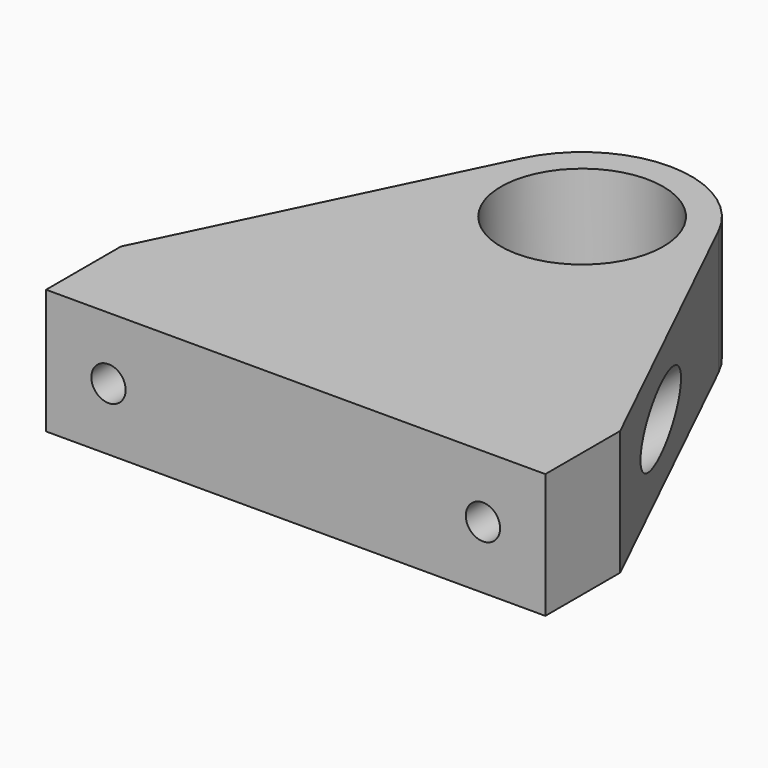
from build123d import *

# Parameters (mm, degrees)
PAD_DEPTH       = 20
SKETCH001_R     = 13
POCKET_DEPTH    = 18
SKETCH002_R     = 2.75
POCKET001_DEPTH = 74.863063
POCKET002_START = -20
SKETCH003_R     = 5
POCKET002_DEPTH = 50


with BuildPart() as part:
    # Sketch → Pad (new body)
    with BuildSketch(Plane.XY):
        with BuildLine():
            Line((0, 0), (0, 15))
            Line((24.254781, 65), (0, 15))
            ThreePointArc((55.745219, 65), (40, 74.862063), (24.254781, 65))
            Line((55.745219, 65), (80, 15))
            Line((80, 0), (80, 15))
            Line((0, 0), (80, 0))
        make_face()
    extrude(amount=PAD_DEPTH)

    # Sketch001 (on Face8 of Pad) → Pocket (cut)
    with BuildSketch(Plane.XY.offset(20)):
        with Locations((40, 57.362063)):
            Circle(SKETCH001_R)
    extrude(amount=-POCKET_DEPTH, mode=Mode.SUBTRACT)

    # Sketch002 (on Face7 of Pocket) → Pocket001 (cut, through all)
    with BuildSketch(Plane.XZ):
        with Locations((10, 10)):
            Circle(SKETCH002_R)
        with Locations((70, 10)):
            Circle(SKETCH002_R)
    extrude(amount=-POCKET001_DEPTH, mode=Mode.SUBTRACT)

    # Sketch003 → Pocket002 (cut)
    with BuildSketch(Plane.XZ.offset(POCKET002_START)):
        with Locations((70, 10)):
            Circle(SKETCH003_R)
        with Locations((10, 10)):
            Circle(SKETCH003_R)
    extrude(amount=-POCKET002_DEPTH, mode=Mode.SUBTRACT)


solid = part.part
